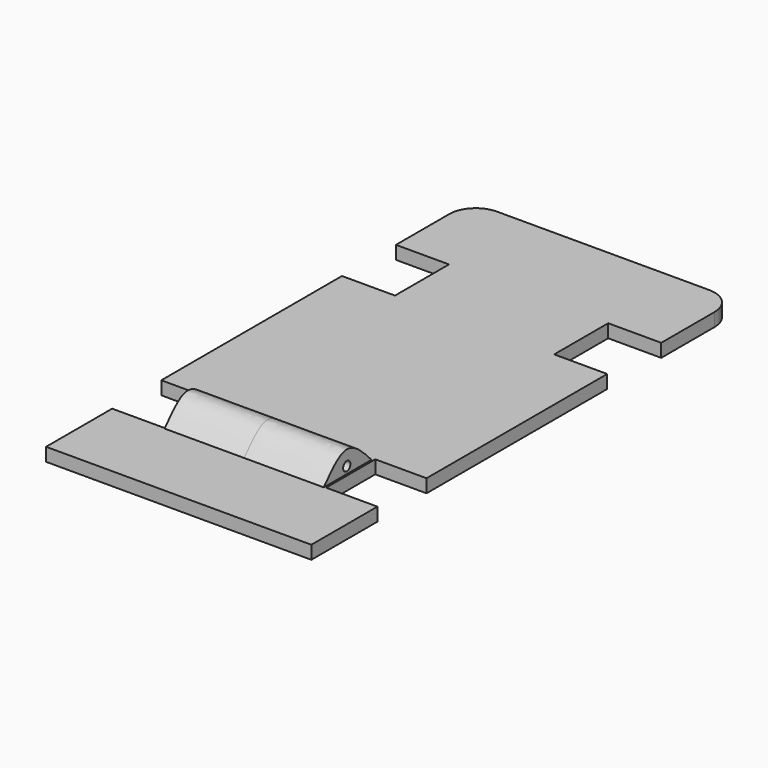
from build123d import *

# Parameters (mm, degrees)
F1_DEPTH = 1.27
F2_R     = 0.4364115167
F3_DEPTH = 7.62


with BuildPart() as f1:
    # F0 (on Top) → F1 (new body)
    with BuildSketch(Plane.XY):
        with BuildLine():
            ThreePointArc((12.7, 22.86), (11.9560512242, 24.6560512242), (10.16, 25.4))
            Line((10.16, 25.4), (-10.16, 25.4))
            ThreePointArc((-10.16, 25.4), (-11.9560512242, 24.6560512242), (-12.7, 22.86))
            Line((-12.7, 22.86), (-12.7, 16.4788402617))
            Line((-12.7, 16.4788402617), (-7.6222680509, 16.4788402617))
            Line((-7.6222680509, 16.4788402617), (-7.6222680509, 10.01597289))
            Line((-7.6222680509, 10.01597289), (-12.7, 10.01597289))
            Line((-12.7, 10.01597289), (-12.7, -11.6097806022))
            Line((-12.7, -11.6097806022), (-7.6222680509, -11.6097806022))
            Line((-7.6222680509, -11.6097806022), (-7.6222680509, -17.4926500767))
            Line((-7.6222680509, -17.4926500767), (-12.7, -17.4926500767))
            Line((-12.7, -17.4926500767), (-12.7, -25.4))
            Line((-12.7, -25.4), (12.7, -25.4))
            Line((12.7, -25.4), (12.7, -17.4926500767))
            Line((12.7, -17.4926500767), (7.789188996, -17.4926500767))
            Line((7.789188996, -17.4926500767), (7.789188996, -11.6097806022))
            Line((7.789188996, -11.6097806022), (12.7, -11.6097806022))
            Line((12.7, -11.6097806022), (12.7, 10.01597289))
            Line((12.7, 10.01597289), (7.6222680509, 10.01597289))
            Line((7.6222680509, 10.01597289), (7.6222680509, 16.4788402617))
            Line((7.6222680509, 16.4788402617), (12.7, 16.4788402617))
            Line((12.7, 16.4788402617), (12.7, 22.86))
        make_face()
    extrude(amount=F1_DEPTH)


with BuildPart() as f3:
    # F2 (on Right) → F3 (new body, symmetric)
    with BuildSketch(Plane.YZ):
        with BuildLine():
            add(Edge.make_bspline(
                [(-17.6429208368, 1.1851433665), (-16.707111369, 2.2595303594), (-14.8287098272, 4.4160913405), (-12.8431500772, 2.3225658567), (-11.8467854336, 1.2720234226)],
                knots=[0, 0, 0, 0, 0.4981945803, 1, 1, 1, 1], degree=3))
            Line((-17.6429208368, 1.1851433665), (-11.8467854336, 1.2720234226))
        make_face()
        with Locations((-14.8088959977, 1.9449801184)):
            Circle(F2_R, mode=Mode.SUBTRACT)
    extrude(amount=F3_DEPTH, both=True)


solid = Compound([f1.part, f3.part])
